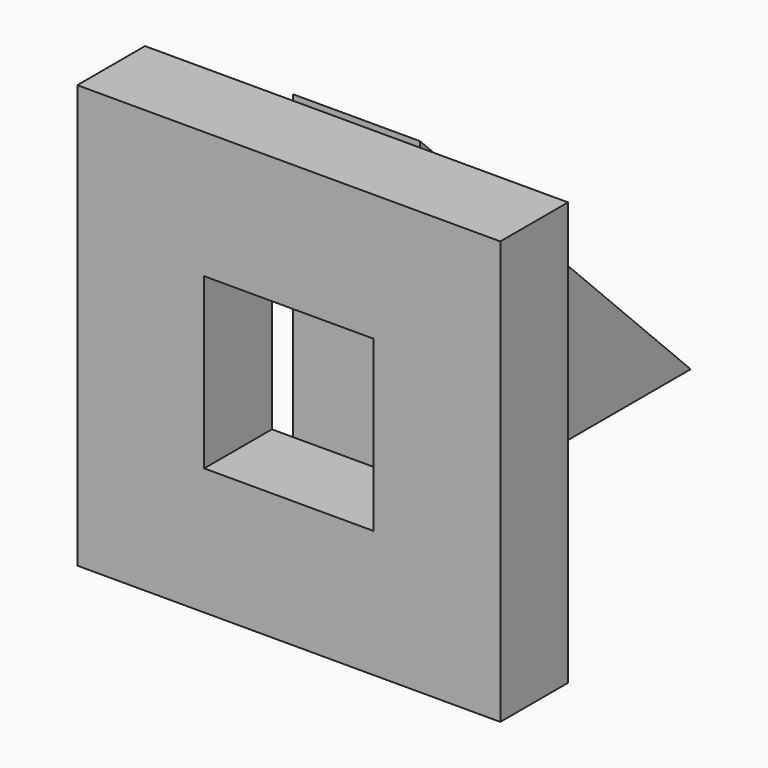
from build123d import *

# Parameters (mm, degrees)
F0_W     = 100
F0_H     = 100
F0_W_2   = 40
F0_H_2   = 40
F1_DEPTH = 20
F3_DEPTH = 15


with BuildPart() as f1:
    # F0 (on Front) → F1 (new body)
    with BuildSketch(Plane.XZ):
        Rectangle(F0_W, F0_H)
        Rectangle(F0_W_2, F0_H_2, mode=Mode.SUBTRACT)
    extrude(amount=F1_DEPTH)

    # F2 (on Right) → F3 (join, symmetric)
    with BuildSketch(Plane.YZ):
        Polygon((80, -28.63813), (0, 51.36187), (0, -28.63813), align=None)
    extrude(amount=F3_DEPTH, both=True)


solid = f1.part
